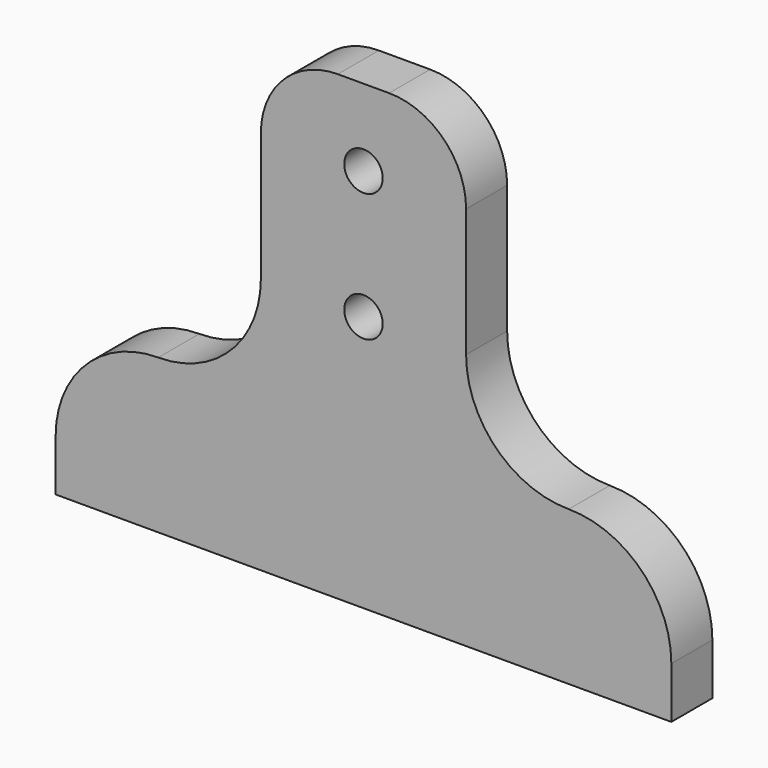
from build123d import *

# Parameters (mm, degrees)
F0_R     = 4.7625
F1_DEPTH = 12.7
F2_R     = 2.38125
F3_DEPTH = 12.7


with BuildPart() as f1:
    # F0 (on Front) → F1 (new body)
    with BuildSketch(Plane.XZ):
        with BuildLine():
            Line((-76.2, 12.7), (-76.2, 0))
            Line((-76.2, 0), (76.2, 0))
            Line((76.2, 0), (76.2, 12.7))
            ThreePointArc((76.2, 12.7), (68.760512, 30.660512), (50.8, 38.1))
            ThreePointArc((50.8, 38.1), (32.839488, 45.539488), (25.4, 63.5))
            Line((25.4, 63.5), (25.4, 95.25))
            ThreePointArc((25.4, 95.25), (19.820384, 108.720384), (6.35, 114.3))
            Line((6.35, 114.3), (-6.35, 114.3))
            ThreePointArc((-6.35, 114.3), (-19.820384, 108.720384), (-25.4, 95.25))
            Line((-25.4, 95.25), (-25.4, 63.5))
            ThreePointArc((-25.4, 63.5), (-32.839488, 45.539488), (-50.8, 38.1))
            ThreePointArc((-50.8, 38.1), (-68.760512, 30.660512), (-76.2, 12.7))
        make_face()
        with Locations((0, 63.5)):
            Circle(F0_R, mode=Mode.SUBTRACT)
        with Locations((0, 95.25)):
            Circle(F0_R, mode=Mode.SUBTRACT)
    extrude(amount=F1_DEPTH)

    # F2 (on face) → F3 (cut)
    with BuildSketch(Plane(origin=(0, 0, 0), x_dir=(1, 0, 0), z_dir=(0, 0, -1))):
        with Locations((-50.8, 6.35)):
            Circle(F2_R)
        with Locations((50.8, 6.35)):
            Circle(F2_R)
    extrude(amount=-F3_DEPTH, mode=Mode.SUBTRACT)


solid = f1.part
